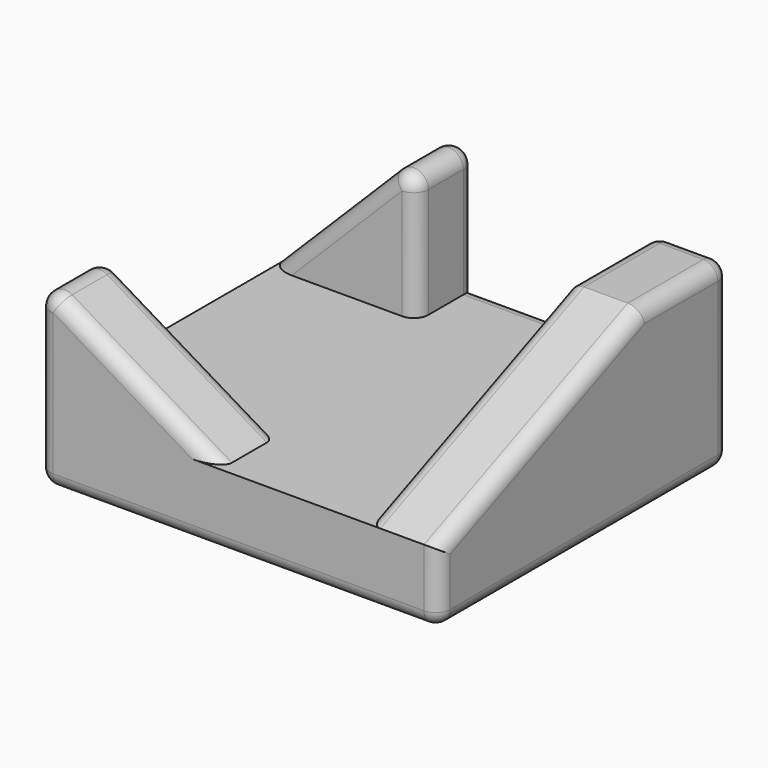
from build123d import *

# Parameters (mm, degrees)
F0_W     = 55
F0_H     = 50
F1_DEPTH = 10
F5_DEPTH = 10
F6_DEPTH = 10
F7_DEPTH = 10
F8_R     = 2


with BuildPart() as f1:
    # F0 (on Top) → F1 (new body)
    with BuildSketch(Plane.XY):
        Rectangle(F0_W, F0_H)
    extrude(amount=F1_DEPTH)

    # F4 (on face) → F5 (join)
    with BuildSketch(Plane.YZ.offset(27.5)):
        Polygon((-25, 10), (25, 10), (25, 25), (10, 25), align=None)
    extrude(amount=-F5_DEPTH)

    # F3 (on face) → F6 (join)
    with BuildSketch(Plane(origin=(0, 25, 0), x_dir=(-1, 0, 0), z_dir=(0, 1, 0))):
        Polygon((7.5, 10), (27.5, 10), (7.5, 30), align=None)
    extrude(amount=-F6_DEPTH)

    # F2 (on face) → F7 (join)
    with BuildSketch(Plane.XZ.offset(25)):
        Polygon((-27.5, 25), (-27.5, 10), (-2.5, 10), align=None)
    extrude(amount=-F7_DEPTH)

    # F8
    f8_edges = [f1.edges().sort_by_distance(p)[0] for p in [
        (17.5, 25, 17.5),
        (17.5, 17.5, 25),
        (22.5, 25, 25),
        (27.5, 25, 12.5),
        (27.5, 17.5, 25),
        (17.5, -7.5, 17.5),
        (27.5, -7.5, 17.5),
        (-17.5, 25, 20),
        (-17.5, 15, 20),
        (-7.5, 20, 30),
        (-7.5, 25, 20),
        (5, 25, 10),
        (-7.5, 15, 20),
        (-27.5, 0, 0),
        (-27.5, -15, 17.5),
        (-15, -15, 17.5),
        (-27.5, -20, 25),
        (-27.5, -25, 12.5),
        (-15, -25, 17.5),
        (0, -25, 0),
        (27.5, -25, 5),
        (27.5, 0, 0),
        (0, 25, 0),
    ]]
    fillet(f8_edges, radius=F8_R)


solid = f1.part
